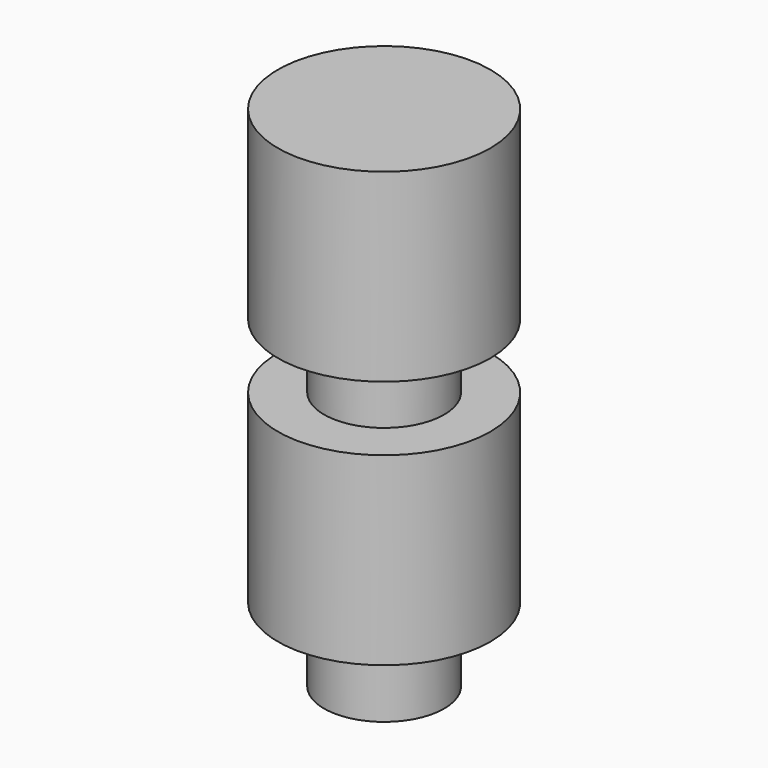
from build123d import *

# Parameters (mm, degrees)
CYLINDER037_R     = 5.75
CYLINDER037_DEPTH = 10
CYLINDER036_R     = 3.25
CYLINDER036_DEPTH = 10
CYLINDER035_R     = 5.75
CYLINDER035_DEPTH = 10
CYLINDER034_R     = 3.25
CYLINDER034_DEPTH = 10


with BuildPart() as obj1:
    # Cylinder037 → Cylinder037 (new body)
    with BuildSketch(Plane(origin=(-23, 0, 69), x_dir=(1, 0, 0), z_dir=(0, 0, 1))):
        Circle(CYLINDER037_R)
    extrude(amount=CYLINDER037_DEPTH)


with BuildPart() as fusion012:
    # Cylinder036 → Cylinder036 (new body)
    with BuildSketch(Plane(origin=(-23, 0, 65), x_dir=(1, 0, 0), z_dir=(0, 0, 1))):
        Circle(CYLINDER036_R)
    extrude(amount=CYLINDER036_DEPTH)

    # Fusion012: union obj1
    add(obj1.part)


with BuildPart() as fusion012_1:
    # Fusion012 placement: moved
    add(fusion012.part.moved(Location((2.5, -25, -19.5))))


with BuildPart() as obj2:
    # Cylinder035 → Cylinder035 (new body)
    with BuildSketch(Plane(origin=(-23, 0, 69), x_dir=(1, 0, 0), z_dir=(0, 0, 1))):
        Circle(CYLINDER035_R)
    extrude(amount=CYLINDER035_DEPTH)


with BuildPart() as antennacuts001:
    # Cylinder034 → Cylinder034 (new body)
    with BuildSketch(Plane(origin=(-23, 0, 65), x_dir=(1, 0, 0), z_dir=(0, 0, 1))):
        Circle(CYLINDER034_R)
    extrude(amount=CYLINDER034_DEPTH)

    # Fusion011: union obj2
    add(obj2.part)


with BuildPart() as antennacuts001_1:
    # Fusion011 placement: moved
    add(antennacuts001.part.moved(Location((2.5, -25, -6))))

    # Fusion013: union Fusion012
    add(fusion012_1.part)


with BuildPart() as antennacuts001_2:
    # Fusion013 placement: moved
    add(antennacuts001_1.part.moved(Location((158, 162.5, 105))))


solid = antennacuts001_2.part
